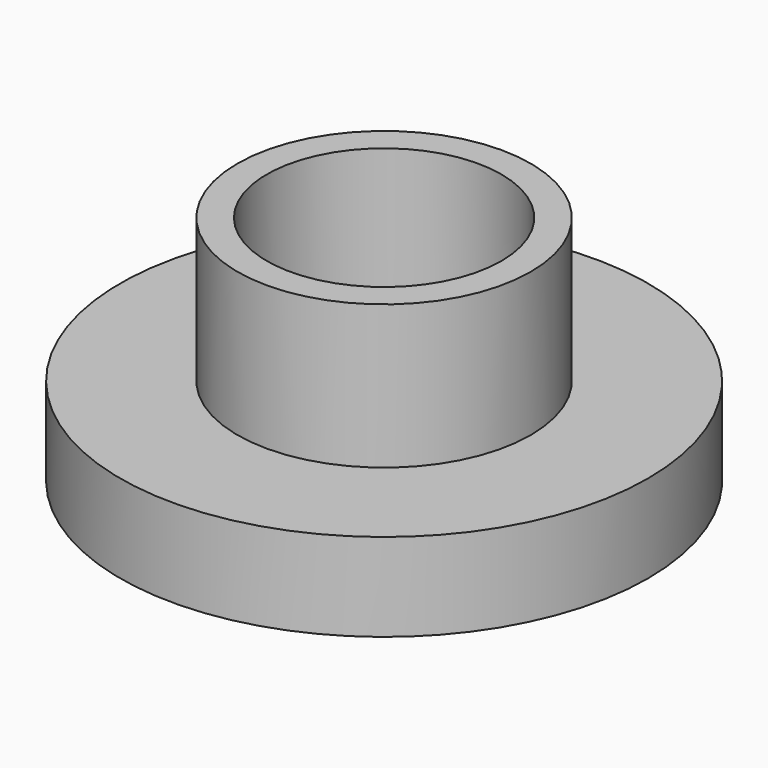
from build123d import *

# Parameters (mm, degrees)
F0_R     = 9
F1_DEPTH = 3
F2_R     = 5
F3_DEPTH = 4.9
F4_R     = 4
F5_DEPTH = 15


with BuildPart() as f1:
    # F0 (on Top) → F1 (new body)
    with BuildSketch(Plane.XY):
        Circle(F0_R)
    extrude(amount=-F1_DEPTH)

    # F2 (on Top) → F3 (join)
    with BuildSketch(Plane.XY):
        Circle(F2_R)
    extrude(amount=F3_DEPTH)

    # F4 (on Top) → F5 (cut, symmetric)
    with BuildSketch(Plane.XY):
        Circle(F4_R)
    extrude(amount=F5_DEPTH, both=True, mode=Mode.SUBTRACT)


solid = f1.part
